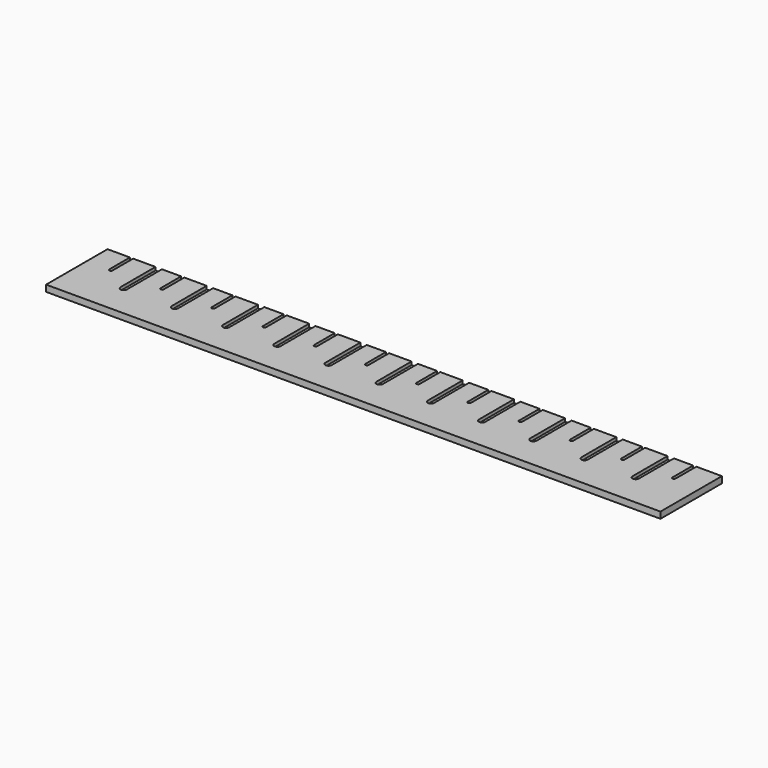
from build123d import *

# Parameters (mm, degrees)
F0_W     = 304.8
F0_H     = 38.1
F1_DEPTH = 3.175
F3_DEPTH = 1.5875
F5_DEPTH = 1.5875


with BuildPart() as f1:
    # F0 (on Top) → F1 (new body)
    with BuildSketch(Plane.XY):
        with Locations((0.280146, 19.05)):
            Rectangle(F0_W, F0_H)
    extrude(amount=F1_DEPTH)

    # F2 (on face) → F3 (cut)
    with BuildSketch(Plane.XY.offset(3.175)):
        with BuildLine():
            Line((-126.719854, 38.1), (-128.307354, 38.1))
            Line((-128.307354, 38.1), (-128.307354, 16.401879))
            ThreePointArc((-128.307354, 16.401879), (-126.719854, 14.814379), (-125.132354, 16.401879))
            Line((-125.132354, 16.401879), (-125.132354, 38.1))
            Line((-125.132354, 38.1), (-126.719854, 38.1))
        make_face()
        with BuildLine():
            Line((-101.319854, 38.1), (-102.907354, 38.1))
            Line((-102.907354, 38.1), (-102.907354, 16.401879))
            ThreePointArc((-102.907354, 16.401879), (-101.319854, 14.814379), (-99.732354, 16.401879))
            Line((-99.732354, 16.401879), (-99.732354, 38.1))
            Line((-99.732354, 38.1), (-101.319854, 38.1))
        make_face()
        with BuildLine():
            Line((-75.919854, 38.1), (-77.507354, 38.1))
            Line((-77.507354, 38.1), (-77.507354, 16.401879))
            ThreePointArc((-77.507354, 16.401879), (-75.919854, 14.814379), (-74.332354, 16.401879))
            Line((-74.332354, 16.401879), (-74.332354, 38.1))
            Line((-74.332354, 38.1), (-75.919854, 38.1))
        make_face()
        with BuildLine():
            Line((-50.519854, 38.1), (-52.107354, 38.1))
            Line((-52.107354, 38.1), (-52.107354, 16.401879))
            ThreePointArc((-52.107354, 16.401879), (-50.519854, 14.814379), (-48.932354, 16.401879))
            Line((-48.932354, 16.401879), (-48.932354, 38.1))
            Line((-48.932354, 38.1), (-50.519854, 38.1))
        make_face()
        with BuildLine():
            Line((-25.119854, 38.1), (-26.707354, 38.1))
            Line((-26.707354, 38.1), (-26.707354, 16.401879))
            ThreePointArc((-26.707354, 16.401879), (-25.119854, 14.814379), (-23.532354, 16.401879))
            Line((-23.532354, 16.401879), (-23.532354, 38.1))
            Line((-23.532354, 38.1), (-25.119854, 38.1))
        make_face()
        with BuildLine():
            Line((1.867646, 16.401879), (1.867646, 38.1))
            Line((1.867646, 38.1), (0.280146, 38.1))
            Line((0.280146, 38.1), (-1.307354, 38.1))
            Line((-1.307354, 38.1), (-1.307354, 16.401879))
            ThreePointArc((-1.307354, 16.401879), (0.280146, 14.814379), (1.867646, 16.401879))
        make_face()
        with BuildLine():
            Line((27.267646, 16.401879), (27.267646, 38.1))
            Line((27.267646, 38.1), (25.680146, 38.1))
            Line((25.680146, 38.1), (24.092646, 38.1))
            Line((24.092646, 38.1), (24.092646, 16.401879))
            ThreePointArc((24.092646, 16.401879), (25.680146, 14.814379), (27.267646, 16.401879))
        make_face()
        with BuildLine():
            Line((52.667646, 16.401879), (52.667646, 38.1))
            Line((52.667646, 38.1), (51.080146, 38.1))
            Line((51.080146, 38.1), (49.492646, 38.1))
            Line((49.492646, 38.1), (49.492646, 16.401879))
            ThreePointArc((49.492646, 16.401879), (51.080146, 14.814379), (52.667646, 16.401879))
        make_face()
        with BuildLine():
            Line((78.067646, 16.401879), (78.067646, 38.1))
            Line((78.067646, 38.1), (76.480146, 38.1))
            Line((76.480146, 38.1), (74.892646, 38.1))
            Line((74.892646, 38.1), (74.892646, 16.401879))
            ThreePointArc((74.892646, 16.401879), (76.480146, 14.814379), (78.067646, 16.401879))
        make_face()
        with BuildLine():
            Line((103.467646, 16.401879), (103.467646, 38.1))
            Line((103.467646, 38.1), (101.880146, 38.1))
            Line((101.880146, 38.1), (100.292646, 38.1))
            Line((100.292646, 38.1), (100.292646, 16.401879))
            ThreePointArc((100.292646, 16.401879), (101.880146, 14.814379), (103.467646, 16.401879))
        make_face()
        with BuildLine():
            Line((128.867646, 16.401879), (128.867646, 38.1))
            Line((128.867646, 38.1), (127.280146, 38.1))
            Line((127.280146, 38.1), (125.692646, 38.1))
            Line((125.692646, 38.1), (125.692646, 16.401879))
            ThreePointArc((125.692646, 16.401879), (127.280146, 14.814379), (128.867646, 16.401879))
        make_face()
    extrude(amount=-F3_DEPTH, mode=Mode.SUBTRACT)

    # F4 (on face) → F5 (cut)
    with BuildSketch(Plane.XY.offset(3.175)):
        with BuildLine():
            ThreePointArc((-139.419854, 38.1), (-140.213604, 38.89375), (-141.007354, 38.1))
            Line((-141.007354, 38.1), (-141.007354, 25.334114))
            ThreePointArc((-141.007354, 25.334114), (-140.213604, 24.540364), (-139.419854, 25.334114))
            Line((-139.419854, 25.334114), (-139.419854, 38.1))
        make_face()
        with BuildLine():
            ThreePointArc((-114.019854, 38.1), (-114.813604, 38.89375), (-115.607354, 38.1))
            Line((-115.607354, 38.1), (-115.607354, 25.334114))
            ThreePointArc((-115.607354, 25.334114), (-114.813604, 24.540364), (-114.019854, 25.334114))
            Line((-114.019854, 25.334114), (-114.019854, 38.1))
        make_face()
        with BuildLine():
            ThreePointArc((-88.619854, 38.1), (-89.413604, 38.89375), (-90.207354, 38.1))
            Line((-90.207354, 38.1), (-90.207354, 25.334114))
            ThreePointArc((-90.207354, 25.334114), (-89.413604, 24.540364), (-88.619854, 25.334114))
            Line((-88.619854, 25.334114), (-88.619854, 38.1))
        make_face()
        with BuildLine():
            ThreePointArc((-63.219854, 38.1), (-64.013604, 38.89375), (-64.807354, 38.1))
            Line((-64.807354, 38.1), (-64.807354, 25.334114))
            ThreePointArc((-64.807354, 25.334114), (-64.013604, 24.540364), (-63.219854, 25.334114))
            Line((-63.219854, 25.334114), (-63.219854, 38.1))
        make_face()
        with BuildLine():
            ThreePointArc((-37.819854, 38.1), (-38.613604, 38.89375), (-39.407354, 38.1))
            Line((-39.407354, 38.1), (-39.407354, 25.334114))
            ThreePointArc((-39.407354, 25.334114), (-38.613604, 24.540364), (-37.819854, 25.334114))
            Line((-37.819854, 25.334114), (-37.819854, 38.1))
        make_face()
        with BuildLine():
            ThreePointArc((-12.419854, 38.1), (-13.213604, 38.89375), (-14.007354, 38.1))
            Line((-14.007354, 38.1), (-14.007354, 25.334114))
            ThreePointArc((-14.007354, 25.334114), (-13.213604, 24.540364), (-12.419854, 25.334114))
            Line((-12.419854, 25.334114), (-12.419854, 38.1))
        make_face()
        with BuildLine():
            ThreePointArc((12.980146, 38.1), (12.186396, 38.89375), (11.392646, 38.1))
            Line((11.392646, 38.1), (11.392646, 25.334114))
            ThreePointArc((11.392646, 25.334114), (12.186396, 24.540364), (12.980146, 25.334114))
            Line((12.980146, 25.334114), (12.980146, 38.1))
        make_face()
        with BuildLine():
            ThreePointArc((38.380146, 38.1), (37.586396, 38.89375), (36.792646, 38.1))
            Line((36.792646, 38.1), (36.792646, 25.334114))
            ThreePointArc((36.792646, 25.334114), (37.586396, 24.540364), (38.380146, 25.334114))
            Line((38.380146, 25.334114), (38.380146, 38.1))
        make_face()
        with BuildLine():
            ThreePointArc((63.780146, 38.1), (62.986396, 38.89375), (62.192646, 38.1))
            Line((62.192646, 38.1), (62.192646, 25.334114))
            ThreePointArc((62.192646, 25.334114), (62.986396, 24.540364), (63.780146, 25.334114))
            Line((63.780146, 25.334114), (63.780146, 38.1))
        make_face()
        with BuildLine():
            ThreePointArc((89.180146, 38.1), (88.386396, 38.89375), (87.592646, 38.1))
            Line((87.592646, 38.1), (87.592646, 25.334114))
            ThreePointArc((87.592646, 25.334114), (88.386396, 24.540364), (89.180146, 25.334114))
            Line((89.180146, 25.334114), (89.180146, 38.1))
        make_face()
        with BuildLine():
            ThreePointArc((114.580146, 38.1), (113.786396, 38.89375), (112.992646, 38.1))
            Line((112.992646, 38.1), (112.992646, 25.334114))
            ThreePointArc((112.992646, 25.334114), (113.786396, 24.540364), (114.580146, 25.334114))
            Line((114.580146, 25.334114), (114.580146, 38.1))
        make_face()
        with BuildLine():
            ThreePointArc((139.980146, 38.1), (139.186396, 38.89375), (138.392646, 38.1))
            Line((138.392646, 38.1), (138.392646, 25.334114))
            ThreePointArc((138.392646, 25.334114), (139.186396, 24.540364), (139.980146, 25.334114))
            Line((139.980146, 25.334114), (139.980146, 38.1))
        make_face()
    extrude(amount=-F5_DEPTH, mode=Mode.SUBTRACT)


solid = f1.part
